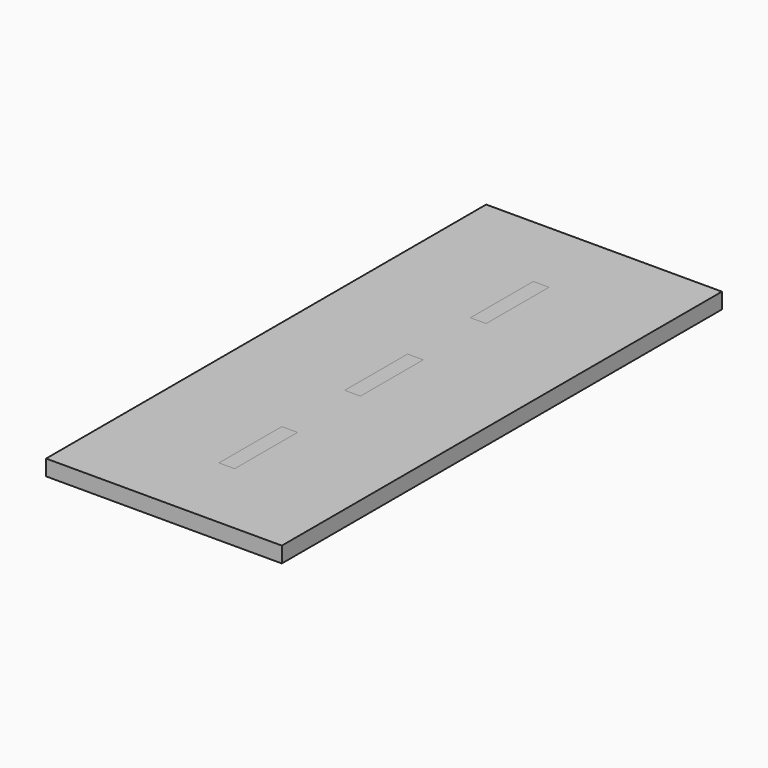
from build123d import *

# Parameters (mm, degrees)
F0_W     = 25.4
F0_H     = 127
F1_DEPTH = 25.4
F2_DEPTH = 25.4


with BuildPart() as f1:
    # F0 (on Top) → F1 (new body)
    with BuildSketch(Plane.XY):
        Polygon((-12.7, 381), (-190.5, 381), (-190.5, -381), (-12.7, -381), (-12.7, -254), (-12.7, -127), (-12.7, 0), (-12.7, 127), (-12.7, 254), align=None)
        with Locations((0, 190.5)):
            Rectangle(F0_W, F0_H)
        Polygon((190.5, 381), (12.7, 381), (12.7, 254), (12.7, 127), (12.7, 0), (12.7, -127), (12.7, -254), (12.7, -381), (190.5, -381), align=None)
        with Locations((0, -63.5)):
            Rectangle(F0_W, F0_H)
        with Locations((0, -317.5)):
            Rectangle(F0_W, F0_H)
        Polygon((-190.5, 508), (-190.5, 381), (-12.7, 381), (12.7, 381), (190.5, 381), (190.5, 508), align=None)
        Polygon((-190.5, 508), (-190.5, 381), (-12.7, 381), (12.7, 381), (190.5, 381), (190.5, 508), align=None)
    extrude(amount=F1_DEPTH)


with BuildPart() as f2:
    # F0 (on Top) → F2 (new body)
    with BuildSketch(Plane.XY):
        with Locations((0, 317.5)):
            Rectangle(F0_W, F0_H)
        with Locations((0, 63.5)):
            Rectangle(F0_W, F0_H)
        with Locations((0, -190.5)):
            Rectangle(F0_W, F0_H)
        with Locations((0, 317.5)):
            Rectangle(F0_W, F0_H)
    extrude(amount=F2_DEPTH)


solid = Compound([f1.part, f2.part])
